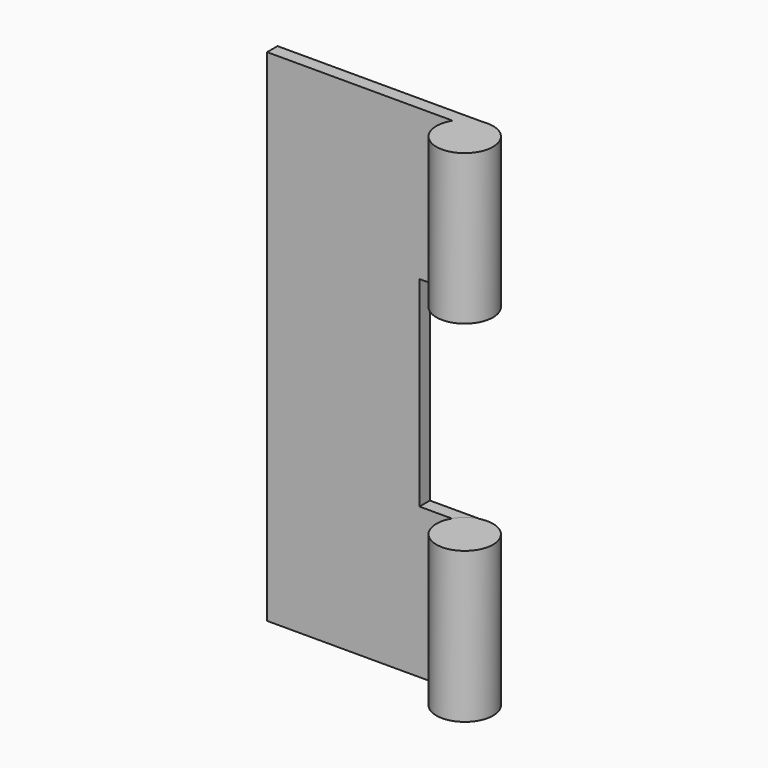
from build123d import *

# Parameters (mm, degrees)
F1_DEPTH = 3
F2_R     = 6.5
F3_DEPTH = 115
F4_W     = 28.374873
F4_H     = 45.940291
F5_DEPTH = 25
F6_DEPTH = 25


with BuildPart() as f1:
    # F0 (on Front) → F1 (new body)
    with BuildSketch(Plane.XZ):
        Polygon((0, 115), (0, 0), (48, 0), (48, 34.5), (35, 34.5), (35, 80.5), (48, 80.5), (48, 115), align=None)
    extrude(amount=F1_DEPTH)

    # F2 (on Top) → F3 (join)
    with BuildSketch(Plane.XY):
        with Locations((48.124816, -6.420063)):
            Circle(F2_R)
    extrude(amount=F3_DEPTH)

    # F4 (on Front) → F5 (cut)
    with BuildSketch(Plane.XZ):
        with Locations((51.307272, 57.549083)):
            Rectangle(F4_W, F4_H)
    extrude(amount=F5_DEPTH, mode=Mode.SUBTRACT)

    # F4 (on Front) → F6 (cut)
    with BuildSketch(Plane.XZ):
        with Locations((51.307272, 57.549083)):
            Rectangle(F4_W, F4_H)
    extrude(amount=-F6_DEPTH, mode=Mode.SUBTRACT)


solid = f1.part
